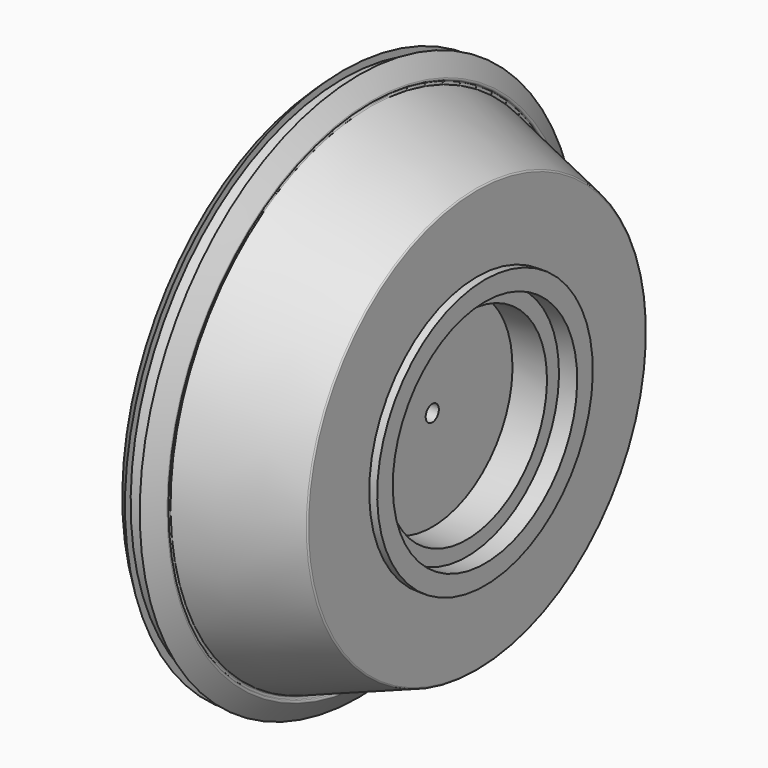
from build123d import *

# Parameters (mm, degrees)
F3_D = 127


with BuildPart() as f1:
    # F0 (on Front) → F1 (revolve)
    with BuildSketch(Plane.XZ):
        with BuildLine():
            Line((-660.4, 775.4238060953), (-660.4, 0))
            Line((-660.4, 0), (0, 0))
            Line((0, 0), (0, 774.0755159906))
            Line((0, 774.0755159906), (266.3543589171, 774.0755159906))
            Line((266.3543589171, 774.0755159906), (266.3543589171, 889.99767279))
            Line((266.3543589171, 889.99767279), (407.0554769, 889.99767279))
            Line((407.0554769, 889.99767279), (407.0554769, 1040.2423758982))
            Line((407.0554769, 1040.2423758982), (345.5139473552, 1040.2423758982))
            Line((345.5139473552, 1040.2423758982), (345.5139473552, 1625.0508221433))
            ThreePointArc((345.5139473552, 1625.0508221433), (343.1785451812, 1632.3901076606), (337.0312525671, 1637.030151705))
            Line((337.0312525671, 1637.030151705), (-480.828159441, 1924.9563451634))
            ThreePointArc((-480.828159441, 1924.9563451634), (-489.2183769175, 1935.405847395), (-483.5707876769, 1947.558731084))
            Line((-483.5707876769, 1947.558731084), (-475.0059557936, 1953.1701726396))
            ThreePointArc((-475.0059557936, 1953.1701726396), (-469.5328379156, 1961.2030099477), (-471.3428328826, 1970.7531624462))
            Line((-471.3428328826, 1970.7531624462), (-565.9828994348, 2115.2037909361))
            Line((-565.9828994348, 2115.2037909361), (-565.9828994348, 2049.4209139973))
            Line((-565.9828994348, 2049.4209139973), (-688.7436101856, 2049.4209139973))
            Line((-688.7436101856, 2049.4209139973), (-688.7436101856, 2104.2400249919))
            Line((-688.7436101856, 2104.2400249919), (-775.0404784566, 2022.0974903231))
            ThreePointArc((-775.0404784566, 2022.0974903231), (-778.9004455113, 2014.3561695182), (-776.9074275047, 2005.9386121117))
            Line((-776.9074275047, 2005.9386121117), (-490.5317174186, 1568.8388422868))
            ThreePointArc((-490.5317174186, 1568.8388422868), (-487.6577889492, 1565.7369162169), (-483.9247536883, 1563.7504978494))
            Line((-483.9247536883, 1563.7504978494), (200.9363237793, 1335.4634720269))
            ThreePointArc((200.9363237793, 1335.4634720269), (207.2230069026, 1330.8410147568), (209.6202311509, 1323.4151941416))
            Line((209.6202311509, 1323.4151941416), (209.6202311509, 986.1721041382))
            ThreePointArc((209.6202311509, 986.1721041382), (206.8135337211, 978.2089035094), (199.6340005596, 973.7654343353))
            Line((199.6340005596, 973.7654343353), (-650.4137694088, 787.8304758981))
            ThreePointArc((-650.4137694088, 787.8304758981), (-657.5933025702, 783.3870067241), (-660.4, 775.4238060953))
        make_face()
    revolve(axis=Axis((-330.2, 0, 0), (1, 0, 0)))

    # F3 (through all)
    with Locations(Plane(origin=(-660.4, 0, 0), x_dir=(0, -1, 0), z_dir=(-1, 0, 0))):
        with Locations((0, 0)):
            Hole(F3_D / 2)


solid = f1.part
